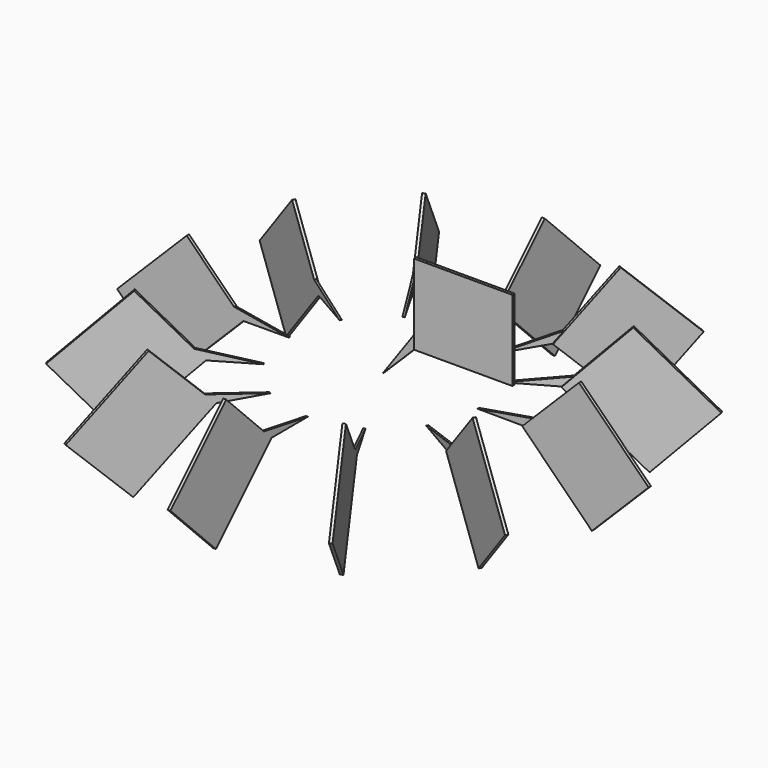
from build123d import *

# Parameters (mm, degrees)
F1_DEPTH = 1
F3_DEPTH = 0.5
F6_ANGLE = 315
F8_COUNT = 12


with BuildPart() as f1:
    # F0 (on Front) → F1 (new body)
    with BuildSketch(Plane.XZ):
        Polygon((68.620734, 58.94183), (16.911186, 58.94183), (16.911186, 23.827231), (0, 0), (16.911186, 16.787115), (68.620734, 16.787115), align=None)
    extrude(amount=F1_DEPTH)

    # F2 (on face) → F3 (join)
    with BuildSketch(Plane.XZ.offset(1)):
        Polygon((16.911186, 58.94183), (16.911186, 23.827231), (16.911186, 16.787115), (68.620734, 16.787115), (68.620734, 58.94183), align=None)
    extrude(amount=F3_DEPTH)


with BuildPart() as f6_1:
    # F6: copy of F1
    add(f1.part.rotate(Axis((0, -5.785061, 0), (0, -1, 0)), F6_ANGLE))


with BuildPart() as f6_1_1:
    # F7: moved
    add(f6_1.part.moved(Location((50, 0, 0))))


with BuildPart() as f8_1:
    # F8: instance of F6_1
    add(f6_1_1.part.rotate(Axis((0, 0, 6.329837), (0, 0, 1)), 1 * 360 / F8_COUNT))


with BuildPart() as f8_2:
    # F8: instance of F6_1
    add(f6_1_1.part.rotate(Axis((0, 0, 6.329837), (0, 0, 1)), 2 * 360 / F8_COUNT))


with BuildPart() as f8_3:
    # F8: instance of F6_1
    add(f6_1_1.part.rotate(Axis((0, 0, 6.329837), (0, 0, 1)), 3 * 360 / F8_COUNT))


with BuildPart() as f8_4:
    # F8: instance of F6_1
    add(f6_1_1.part.rotate(Axis((0, 0, 6.329837), (0, 0, 1)), 4 * 360 / F8_COUNT))


with BuildPart() as f8_5:
    # F8: instance of F6_1
    add(f6_1_1.part.rotate(Axis((0, 0, 6.329837), (0, 0, 1)), 5 * 360 / F8_COUNT))


with BuildPart() as f8_6:
    # F8: instance of F6_1
    add(f6_1_1.part.rotate(Axis((0, 0, 6.329837), (0, 0, 1)), 6 * 360 / F8_COUNT))


with BuildPart() as f8_7:
    # F8: instance of F6_1
    add(f6_1_1.part.rotate(Axis((0, 0, 6.329837), (0, 0, 1)), 7 * 360 / F8_COUNT))


with BuildPart() as f8_8:
    # F8: instance of F6_1
    add(f6_1_1.part.rotate(Axis((0, 0, 6.329837), (0, 0, 1)), 8 * 360 / F8_COUNT))


with BuildPart() as f8_9:
    # F8: instance of F6_1
    add(f6_1_1.part.rotate(Axis((0, 0, 6.329837), (0, 0, 1)), 9 * 360 / F8_COUNT))


with BuildPart() as f8_10:
    # F8: instance of F6_1
    add(f6_1_1.part.rotate(Axis((0, 0, 6.329837), (0, 0, 1)), 10 * 360 / F8_COUNT))


with BuildPart() as f8_11:
    # F8: instance of F6_1
    add(f6_1_1.part.rotate(Axis((0, 0, 6.329837), (0, 0, 1)), 11 * 360 / F8_COUNT))


solid = Compound([f1.part, f6_1_1.part, f8_1.part, f8_2.part, f8_3.part, f8_4.part, f8_5.part, f8_6.part, f8_7.part, f8_8.part, f8_9.part, f8_10.part, f8_11.part])
